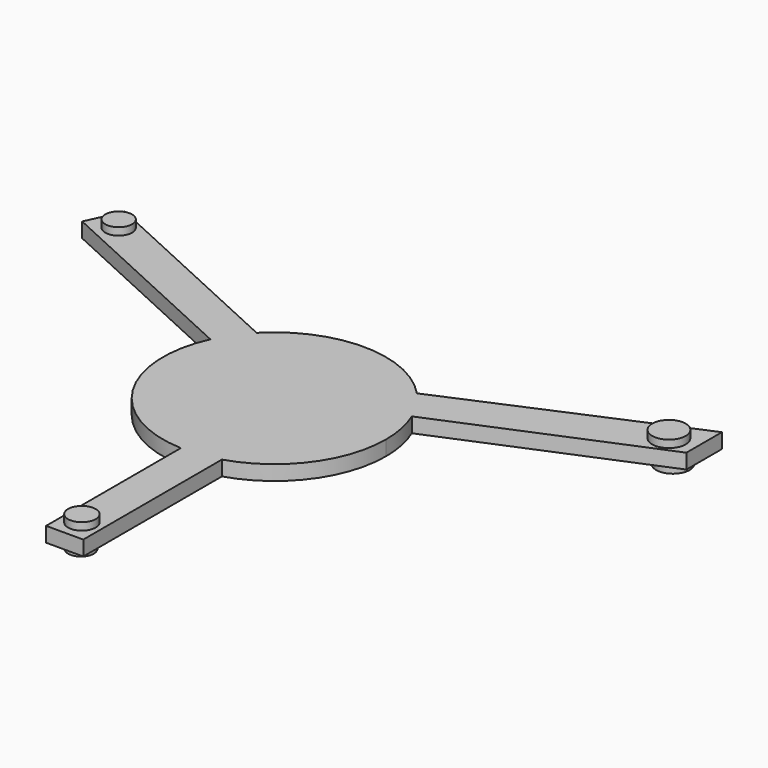
from build123d import *

# Parameters (mm, degrees)
F2_DEPTH = 10.16
F1_R     = 9.1481918334
F1_R_2   = 9.4297469702
F1_R_3   = 11.4352472888
F3_DEPTH = 15.24
F4_R     = 8.7387989597
F4_R_2   = 8.7387973247
F4_R_3   = 11.4352472888
F5_DEPTH = 5.08


with BuildPart() as f2:
    # F0 (on Top) → F2 (new body)
    with BuildSketch(Plane.XY):
        with BuildLine():
            ThreePointArc((22.3403535783, -72.851551816), (61.2730566508, -45.2995864072), (76.2, 0))
            ThreePointArc((76.2, 0), (74.7105977036, 14.9922176738), (70.3006144153, 29.3983607168))
            Line((70.3006144153, 29.3983607168), (22.3403535783, 9.3423048788))
            Line((22.3403535783, 9.3423048788), (22.3403535783, -72.851551816))
        make_face()
        with BuildLine():
            Line((22.3403535783, 9.3423048788), (70.3006144153, 29.3983607168))
            ThreePointArc((70.3006144153, 29.3983607168), (64.0396717964, 41.2960099309), (55.785185421, 51.9081215952))
            Line((55.785185421, 51.9081215952), (21.8996389933, 37.3568432093))
            Line((21.8996389933, 37.3568432093), (22.3403535783, 37.3568432093))
            Line((22.3403535783, 37.3568432093), (22.3403535783, 9.3423048788))
        make_face()
        with BuildLine():
            ThreePointArc((55.785185421, 51.9081215952), (64.0396717964, 41.2960099309), (70.3006144153, 29.3983607168))
            Line((70.3006144153, 29.3983607168), (210.9018432458, 88.1950821504))
            Line((210.9018432458, 88.1950821504), (210.9018432458, 118.5189898936))
            Line((210.9018432458, 118.5189898936), (55.785185421, 51.9081215952))
        make_face()
        with BuildLine():
            Line((22.3403535783, -191.2431567907), (22.3403535783, -72.851551816))
            ThreePointArc((22.3403535783, -72.851551816), (9.7794429224, -75.5698517673), (-3.0596464217, -76.1385484743))
            Line((-3.0596464217, -76.1385484743), (-3.0596464217, -191.2431567907))
            Line((-3.0596464217, -191.2431567907), (22.3403535783, -191.2431567907))
        make_face()
        with BuildLine():
            ThreePointArc((-3.0596464217, -76.1385484743), (9.7794429224, -75.5698517673), (22.3403535783, -72.851551816))
            Line((22.3403535783, -72.851551816), (22.3403535783, 9.3423048788))
            Line((22.3403535783, 9.3423048788), (0, 0))
            Line((0, 0), (-3.0596464217, 1.4057470004))
            Line((-3.0596464217, 1.4057470004), (-3.0596464217, -76.1385484743))
        make_face()
        with BuildLine():
            Line((21.8996389933, 37.3568432093), (55.785185421, 51.9081215952))
            ThreePointArc((55.785185421, 51.9081215952), (0.8041557349, 76.1957566637), (-54.6772246178, 53.0739211675))
            Line((-54.6772246178, 53.0739211675), (-3.0596464217, 29.3583522044))
            Line((-3.0596464217, 29.3583522044), (-3.0596464217, 37.3568432093))
            Line((-3.0596464217, 37.3568432093), (21.8996389933, 37.3568432093))
        make_face()
        with BuildLine():
            ThreePointArc((-69.2414887941, 31.8128312096), (-64.9633637698, -39.8271436047), (-3.0596464217, -76.1385484743))
            Line((-3.0596464217, -76.1385484743), (-3.0596464217, 1.4057470004))
            Line((-3.0596464217, 1.4057470004), (-69.2414887941, 31.8128312096))
        make_face()
        with BuildLine():
            Line((-3.0596464217, 29.3583522044), (-54.6772246178, 53.0739211675))
            ThreePointArc((-54.6772246178, 53.0739211675), (-62.8646989173, 43.0635533837), (-69.2414887941, 31.8128312096))
            Line((-69.2414887941, 31.8128312096), (-3.0596464217, 1.4057470004))
            Line((-3.0596464217, 1.4057470004), (-3.0596464217, 29.3583522044))
        make_face()
        with BuildLine():
            ThreePointArc((-69.2414887941, 31.8128312096), (-62.8646989173, 43.0635533837), (-54.6772246178, 53.0739211675))
            Line((-54.6772246178, 53.0739211675), (-197.1201893125, 118.5189898936))
            Line((-197.1201893125, 118.5189898936), (-207.7244663824, 95.4384936289))
            Line((-207.7244663824, 95.4384936289), (-69.2414887941, 31.8128312096))
        make_face()
        Polygon((0, 0), (22.3403535783, 9.3423048788), (22.3403535783, 37.3568432093), (21.8996389933, 37.3568432093), (0, 27.952605204), (-3.0596464217, 29.3583522044), (-3.0596464217, 1.4057470004), align=None)
        Polygon((0, 27.952605204), (21.8996389933, 37.3568432093), (-3.0596464217, 37.3568432093), (-3.0596464217, 29.3583522044), align=None)
    extrude(amount=F2_DEPTH)

    # F1 (on Top) → F3 (join)
    with BuildSketch(Plane.XY):
        with Locations((-187.970161438, 101.8863245845)):
            Circle(F1_R)
        with Locations((9.4301495701, -176.3151586056)):
            Circle(F1_R_2)
        with Locations((193.1931376457, 95.4085886478)):
            Circle(F1_R_3)
    extrude(amount=F3_DEPTH)

    # F4 (on Top) → F5 (join)
    with BuildSketch(Plane.XY):
        with Locations((9.941550903, -177.6788830757)):
            Circle(F4_R)
        with Locations((-191.5499567986, 102.5681942701)):
            Circle(F4_R_2)
        with Locations((195.068269968, 96.431389451)):
            Circle(F4_R_3)
    extrude(amount=-F5_DEPTH)


solid = f2.part
